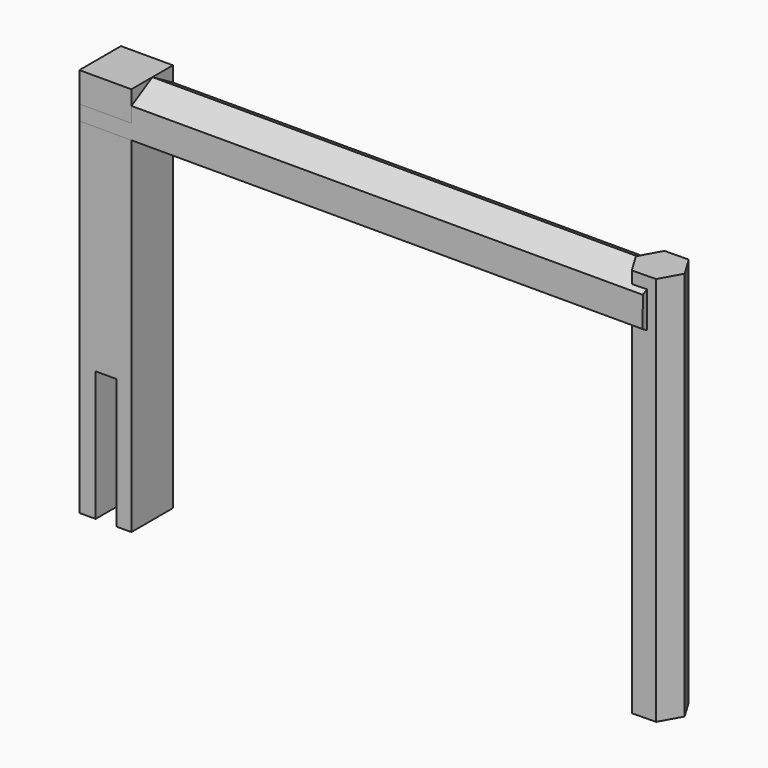
from build123d import *

# Parameters (mm, degrees)
F1_DEPTH = 8
F3_DEPTH = 60
F5_DEPTH = 86.7


with BuildPart() as f1:
    # F0 (on Front) → F1 (new body)
    with BuildSketch(Plane.XZ):
        Polygon((0, 60), (0, 0), (2.5, 0), (2.5, 20), (5.7, 20), (5.7, 0), (8, 0), (8, 60), align=None)
    extrude(amount=F1_DEPTH)


with BuildPart() as f3:
    # F2 (on Top) → F3 (new body)
    with BuildSketch(Plane.XY):
        Polygon((87.992338, -0.763422), (84.292919, -0.828997), (82.5, -4.065575), (84.406499, -7.236578), (88.105918, -7.171003), (89.898838, -3.934425), align=None)
    extrude(amount=F3_DEPTH)


with BuildPart() as f5:
    # F4 (on face) → F5 (new body)
    with BuildSketch(Plane(origin=(0, 0, 0), x_dir=(0, -1, 0), z_dir=(-1, 0, 0))):
        Polygon((4.048045, 50.762895), (8.023806, 53.113779), (7.975761, 57.732332), (3.951955, 60), (-0.023806, 57.649116), (0.024239, 53.030564), align=None)
        Polygon((4.048045, 50.762895), (8, 53.099703), (8, 55.402252), (7.975761, 57.732332), (3.951955, 60), (0, 57.663193), (0, 55.360643), (0.024239, 53.030564), align=None)
    extrude(amount=-F5_DEPTH)


solid = Compound([f1.part, f3.part, f5.part])
